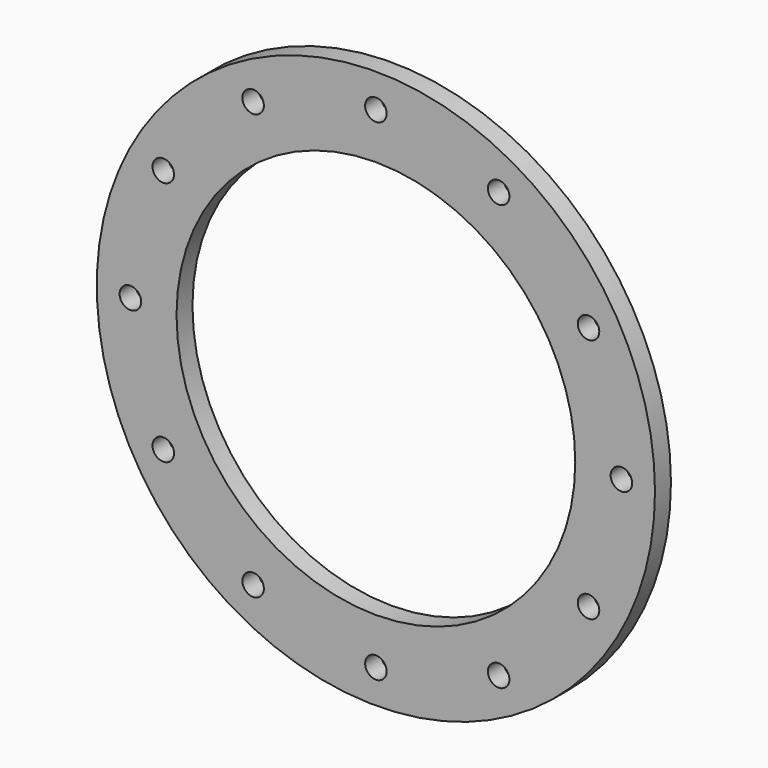
from build123d import *

# Parameters (mm, degrees)
F0_R     = 350
F0_R_2   = 13.492451
F0_R_3   = 250
F1_DEPTH = 25


with BuildPart() as f1:
    # F0 (on Front) → F1 (new body)
    with BuildSketch(Plane.XZ):
        Circle(F0_R)
        with Locations((-153.936103, -266.625151)):
            Circle(F0_R_2, mode=Mode.SUBTRACT)
        with Locations((-266.625151, -153.936103)):
            Circle(F0_R_2, mode=Mode.SUBTRACT)
        with Locations((0, -307.872206)):
            Circle(F0_R_2, mode=Mode.SUBTRACT)
        with Locations((153.936103, -266.625151)):
            Circle(F0_R_2, mode=Mode.SUBTRACT)
        with Locations((266.625151, -153.936103)):
            Circle(F0_R_2, mode=Mode.SUBTRACT)
        with Locations((-307.872206, 0)):
            Circle(F0_R_2, mode=Mode.SUBTRACT)
        with Locations((-266.625151, 153.936103)):
            Circle(F0_R_2, mode=Mode.SUBTRACT)
        with Locations((-153.936103, 266.625151)):
            Circle(F0_R_2, mode=Mode.SUBTRACT)
        Circle(F0_R_3, mode=Mode.SUBTRACT)
        with Locations((307.872206, 0)):
            Circle(F0_R_2, mode=Mode.SUBTRACT)
        with Locations((266.625151, 153.936103)):
            Circle(F0_R_2, mode=Mode.SUBTRACT)
        with Locations((0, 307.872206)):
            Circle(F0_R_2, mode=Mode.SUBTRACT)
        with Locations((153.936103, 266.625151)):
            Circle(F0_R_2, mode=Mode.SUBTRACT)
    extrude(amount=F1_DEPTH)


solid = f1.part
